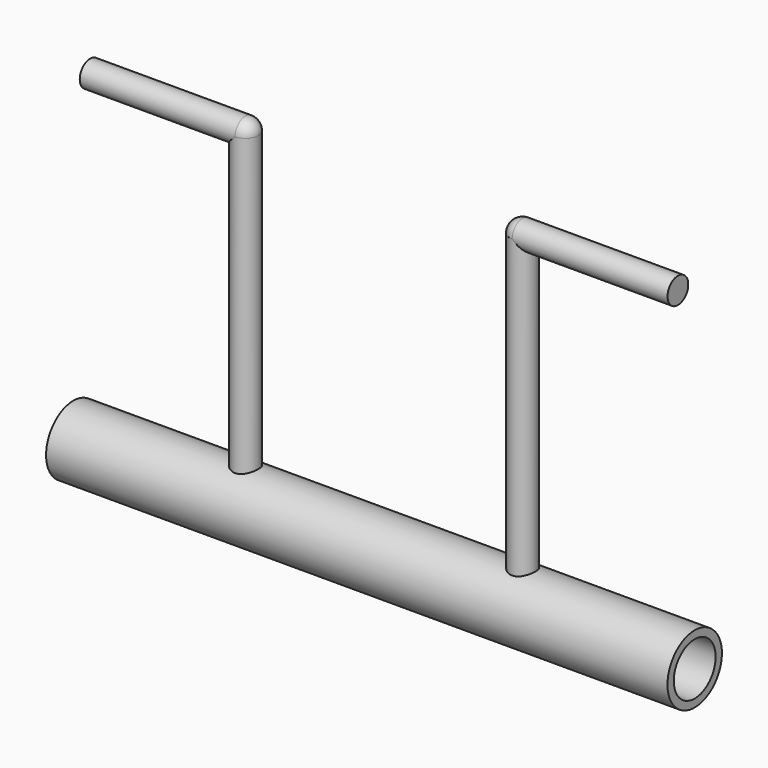
from build123d import *

# Parameters (mm, degrees)
F0_W     = 304.8
F0_H     = 16.7005
F2_R     = 12.827
F4_DEPTH = 304.801
F3_R     = 6.35
F5_DEPTH = 152.4
F8_R     = 6.35
F9_DEPTH = 76.2


with BuildPart() as f1:
    # F0 (on Front) → F1 (revolve)
    with BuildSketch(Plane.XZ):
        Rectangle(F0_W, F0_H)
    revolve(axis=Axis((0, 0, -8.35025), (-1, 0, 0)))

    # F2 (on face) → F4 (cut, through all)
    with BuildSketch(Plane(origin=(-152.4, 0, 0), x_dir=(0, -1, 0), z_dir=(-1, 0, 0))):
        with Locations((0, -8.35025)):
            Circle(F2_R)
    extrude(amount=-F4_DEPTH, mode=Mode.SUBTRACT)


with BuildPart() as f5:
    # F3 (on Top) → F5 (new body)
    with BuildSketch(Plane.XY):
        with Locations((-67.9620431383, 0)):
            Circle(F3_R)
    extrude(amount=F5_DEPTH)


with BuildPart() as f7:
    # F6 (on face) → F7 (revolve)
    with BuildSketch(Plane.XY.offset(152.4)):
        with BuildLine():
            ThreePointArc((-67.9620431383, -6.35), (-63.4719150777, -4.4901280605), (-61.6120431383, 0))
            Line((-61.6120431383, 0), (-67.9620431383, 0))
            Line((-67.9620431383, 0), (-67.9620431383, -6.35))
        make_face()
    revolve(axis=Axis((-64.7870431383, 0, 152.4), (-1, 0, 0)))


with BuildPart() as f9:
    # F8 (on face) → F9 (new body)
    with BuildSketch(Plane(origin=(-67.9620431383, 0, 0), x_dir=(0, -1, 0), z_dir=(-1, 0, 0))):
        with Locations((0, 152.4)):
            Circle(F8_R)
    extrude(amount=F9_DEPTH)


with BuildPart() as f10_1:
    # F10: instance of F9
    add(f9.part.mirror(Plane.YZ))


with BuildPart() as f10_2:
    # F10: instance of F5
    add(f5.part.mirror(Plane.YZ))


with BuildPart() as f10_3:
    # F10: instance of F7
    add(f7.part.mirror(Plane.YZ))


solid = Compound([f1.part, f5.part, f7.part, f9.part, f10_1.part, f10_2.part, f10_3.part])
